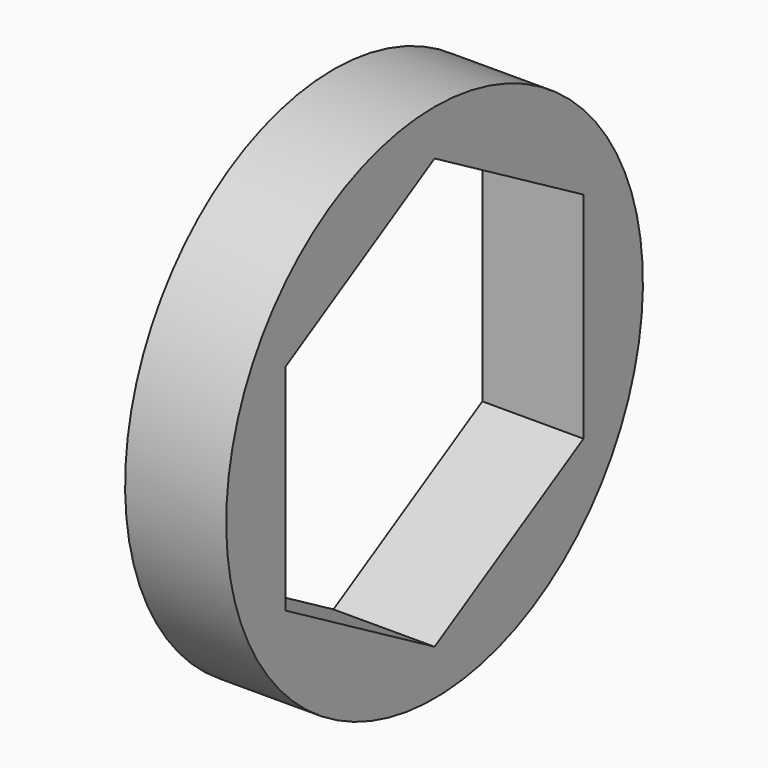
from build123d import *

# Parameters (mm, degrees)
F0_W     = 4
F0_H     = 1.8
F3_DEPTH = 4


with BuildPart() as f1:
    # F0 (on Front) → F1 (revolve)
    with BuildSketch(Plane.XZ):
        with Locations((-19.3521137871, 22.5742971626)):
            Rectangle(F0_W, F0_H)
    revolve(axis=Axis((-20.6097164191, 0, 13.1742971626), (1, 0, 0)))

    # F2 (on face) → F3 (join)
    with BuildSketch(Plane.YZ.offset(-17.3521137871)):
        with BuildLine():
            Line((-7.3612159322, 17.4242971626), (0, 21.6742971626))
            ThreePointArc((0, 21.6742971626), (-4.25, 20.5355130948), (-7.3612159322, 17.4242971626))
        make_face()
        with BuildLine():
            Line((-7.3612159322, 8.9242971626), (-7.3612159322, 17.4242971626))
            ThreePointArc((-7.3612159322, 17.4242971626), (-8.5, 13.1742971626), (-7.3612159322, 8.9242971626))
        make_face()
        with BuildLine():
            Line((0, 4.6742971626), (-7.3612159322, 8.9242971626))
            ThreePointArc((-7.3612159322, 8.9242971626), (-4.25, 5.8130812304), (0, 4.6742971626))
        make_face()
        with BuildLine():
            ThreePointArc((0, 4.6742971626), (4.25, 5.8130812304), (7.3612159322, 8.9242971626))
            Line((7.3612159322, 8.9242971626), (0, 4.6742971626))
        make_face()
        with BuildLine():
            ThreePointArc((8.5, 13.1742971626), (8.2103695235, 15.374259046), (7.3612159322, 17.4242971626))
            Line((7.3612159322, 17.4242971626), (7.3612159322, 8.9242971626))
            ThreePointArc((7.3612159322, 8.9242971626), (8.2103695235, 10.9743352792), (8.5, 13.1742971626))
        make_face()
        with BuildLine():
            ThreePointArc((7.3612159322, 17.4242971626), (4.25, 20.5355130948), (0, 21.6742971626))
            Line((0, 21.6742971626), (7.3612159322, 17.4242971626))
        make_face()
    extrude(amount=-F3_DEPTH)


solid = f1.part
